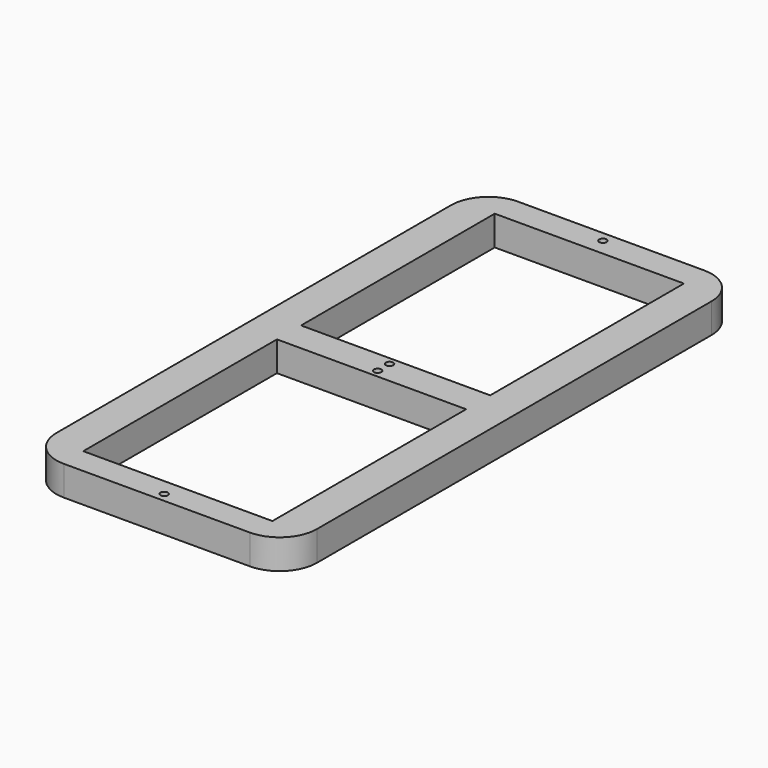
from build123d import *

# Parameters (mm, degrees)
F0_W     = 70
F0_H     = 152.653071
F0_W_2   = 50.857146
F0_H_2   = 65.091088
F1_DEPTH = 8
F2_D     = 2
F2_DEPTH = 50
F3_R     = 10


with BuildPart() as f1:
    # F0 (on Top) → F1 (new body)
    with BuildSketch(Plane.XY):
        with Locations((0, 0.142402)):
            Rectangle(F0_W, F0_H)
        with Locations((0, -36.596865)):
            Rectangle(F0_W_2, F0_H_2, mode=Mode.SUBTRACT)
        with Locations((0, 36.596865)):
            Rectangle(F0_W_2, F0_H_2, mode=Mode.SUBTRACT)
    extrude(amount=F1_DEPTH)

    # F2
    with Locations(Plane(origin=(0, 0, 0), x_dir=(1, 0, 0), z_dir=(0, 0, -1))):
        with Locations((0, 2), (0, -2), (0, 73.713833), (0, -73.713833)):
            Hole(F2_D / 2, depth=F2_DEPTH)

    # F3
    f3_edges = [f1.edges().sort_by_distance(p)[0] for p in [
        (-35, 76.468938, 4),
        (35, 76.468938, 4),
        (-35, -76.184133, 4),
        (35, -76.184133, 4),
    ]]
    fillet(f3_edges, radius=F3_R)


solid = f1.part
